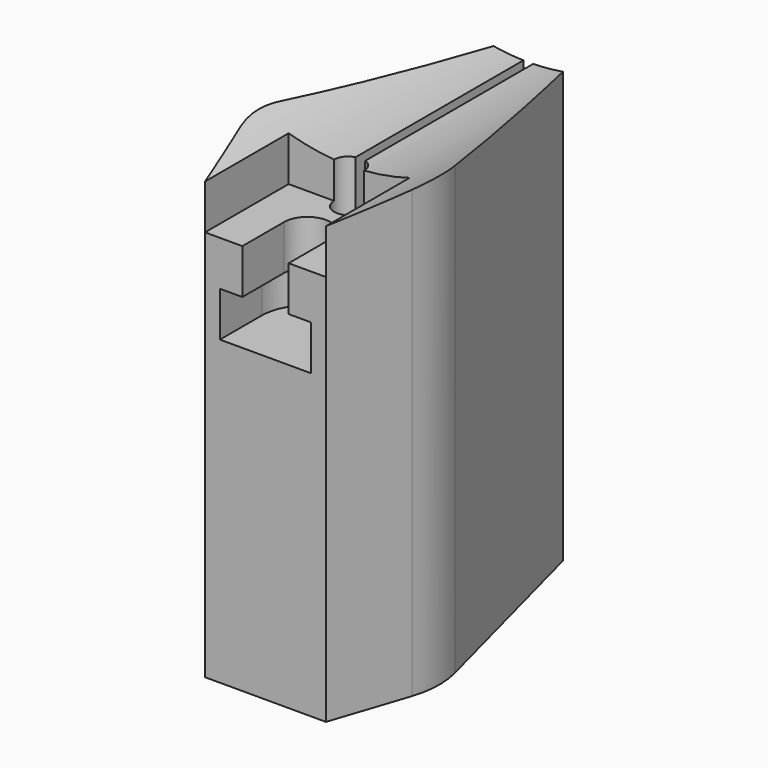
from build123d import *

# Parameters (mm, degrees)
EXTRUDE_DEPTH   = 30
POCKET_DEPTH    = 22.001
POCKET001_DEPTH = 7
POCKET002_DEPTH = 3
POCKET003_DEPTH = 3
SKETCH005_R     = 4.05
POCKET004_DEPTH = 18


with BuildPart() as part:
    # Sketch → Extrude (new body)
    with BuildSketch(Plane.XY):
        with BuildLine():
            ThreePointArc((-5.852556, 1.533), (-6.046854, -0.195073), (-5.741579, -1.907031))
            Line((-5.741579, -1.907031), (-4.05, -7))
            Line((-4.05, -7), (4.05, -7))
            Line((4.05, -7), (5.741579, -1.907031))
            ThreePointArc((5.741579, -1.907031), (6.046854, -0.195073), (5.852556, 1.533))
            Line((2.325, 15), (5.852556, 1.533))
            Line((0.325, 15), (2.325, 15))
            Line((0.325, 0.945714), (0.325, 15))
            ThreePointArc((-0.325, 0.945714), (0, -1), (0.325, 0.945714))
            Line((-0.325, 15), (-0.325, 0.945714))
            Line((-2.325, 15), (-0.325, 15))
            Line((-5.852556, 1.533), (-2.325, 15))
        make_face()
    extrude(amount=EXTRUDE_DEPTH)

    # Sketch001 → Pocket (cut, through all)
    with BuildSketch(Plane.XZ.offset(7)):
        with BuildLine():
            Line((-6.05, 30), (0, 30))
            Line((0, 30), (6.05, 30))
            ThreePointArc((-6.05, 30), (0, 28.641403), (6.05, 30))
        make_face()
    extrude(amount=-POCKET_DEPTH, mode=Mode.SUBTRACT)

    # Sketch002 → Pocket001 (cut)
    with BuildSketch(Plane.XZ.offset(7)):
        with BuildLine():
            Line((-4.05, 29.23338), (-4.05, 26.23338))
            Line((-4.05, 26.23338), (4.05, 26.23338))
            Line((4.05, 26.23338), (4.05, 29.23338))
            ThreePointArc((-4.05, 29.23338), (0, 28.641403), (4.05, 29.23338))
        make_face()
    extrude(amount=-POCKET001_DEPTH, mode=Mode.SUBTRACT)

    # Sketch003 → Pocket002 (cut)
    with BuildSketch(Plane.XY.offset(26.23338)):
        with BuildLine():
            ThreePointArc((1.55, -3.5), (0, -1.95), (-1.55, -3.5))
            Line((-1.55, -3.5), (-1.55, -7))
            Line((-1.55, -7), (1.55, -7))
            Line((1.55, -7), (1.55, -3.5))
        make_face()
    extrude(amount=-POCKET002_DEPTH, mode=Mode.SUBTRACT)

    # Sketch004 → Pocket003 (cut)
    with BuildSketch(Plane.XY.offset(23.23338)):
        with BuildLine():
            ThreePointArc((3.05, -3.5), (0, -0.45), (-3.05, -3.5))
            Line((-3.05, -3.5), (-3.05, -7))
            Line((-3.05, -7), (3.05, -7))
            Line((3.05, -7), (3.05, -3.5))
        make_face()
    extrude(amount=-POCKET003_DEPTH, mode=Mode.SUBTRACT)

    # Sketch005 → Pocket004 (cut)
    with BuildSketch(Plane(origin=(0, 0, 0), x_dir=(1, 0, 0), z_dir=(0, 0, -1))):
        Circle(SKETCH005_R)
    extrude(amount=-POCKET004_DEPTH, mode=Mode.SUBTRACT)


solid = part.part
